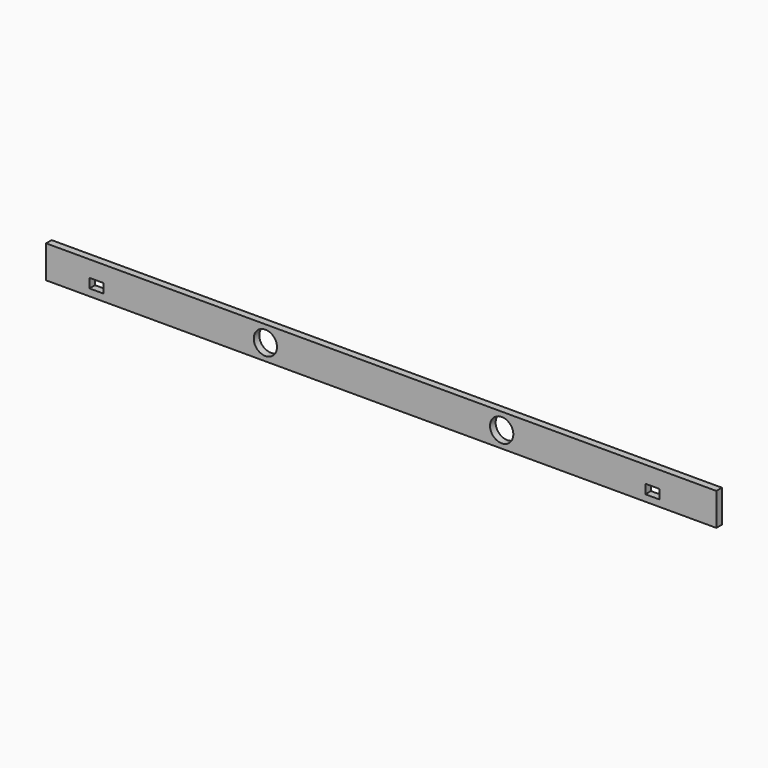
from build123d import *

# Parameters (mm, degrees)
F0_W     = 1828.8
F0_H     = 88.9
F0_W_2   = 38.1
F0_H_2   = 25.4
F0_R     = 31.75
F1_DEPTH = 19.05


with BuildPart() as f1:
    # F0 (on Front) → F1 (new body)
    with BuildSketch(Plane.XZ):
        Rectangle(F0_W, F0_H)
        with Locations((-777.044298, -12.7)):
            Rectangle(F0_W_2, F0_H_2, mode=Mode.SUBTRACT)
        with Locations((739.726365, -13.886383)):
            Rectangle(F0_W_2, F0_H_2, mode=Mode.SUBTRACT)
        with Locations((-316.060573, 0)):
            Circle(F0_R, mode=Mode.SUBTRACT)
        with Locations((328.7251, 0)):
            Circle(F0_R, mode=Mode.SUBTRACT)
    extrude(amount=F1_DEPTH)


solid = f1.part
